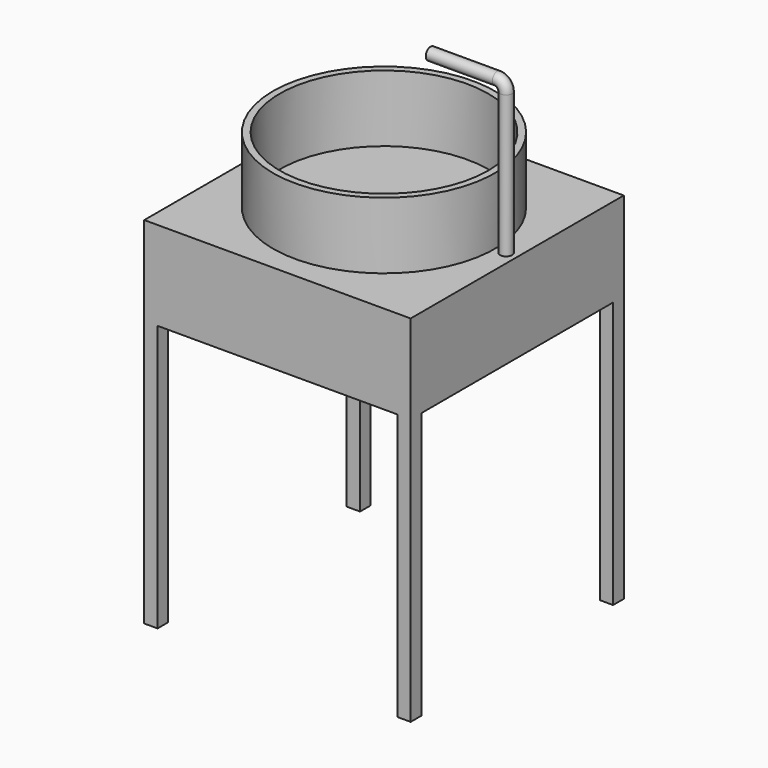
from build123d import *

# Parameters (mm, degrees)
F0_W          = 25
F0_H          = 15
F2_R          = 23.4773699194
F3_DEPTH      = 18.22955
F4_W          = 30
F4_H          = 20
F5_DEPTH      = 30
F5_DEPTH_BACK = 30
F7_R          = 1.3613777444
F9_W          = 3
F9_H          = 3
F10_DEPTH     = 60


with BuildPart() as f1:
    # F0 (on Front) → F1 (revolve)
    with BuildSketch(Plane.XZ):
        with Locations((-12.5, 7.5)):
            Rectangle(F0_W, F0_H)
    revolve(axis=Axis((0, 0, 7.5), (0, 0, 1)))

    # F2 (on face) → F3 (cut)
    with BuildSketch(Plane.XY.offset(15)):
        Circle(F2_R)
    extrude(amount=-F3_DEPTH, mode=Mode.SUBTRACT)

    # F4 (on Front) → F5 (join, two sides)
    with BuildSketch(Plane.XZ) as f5_sk:
        with Locations((15, -10)):
            Rectangle(F4_W, F4_H)
        with Locations((-15, -10)):
            Rectangle(F4_W, F4_H)
    extrude(amount=F5_DEPTH)
    extrude(f5_sk.sketch, amount=-F5_DEPTH_BACK)

    # F8: sweep along a path in F6
    with BuildLine(Plane.XZ) as f8_path:
        Line((27.4984519929, 0), (27.4984519929, 32))
        ThreePointArc((27.4984519929, 32), (26.9126655552, 33.4142135624), (25.4984519929, 34))
        Line((25.4984519929, 34), (10.4984519929, 34))
    # F7 (on Top) → F8 (sweep)
    with BuildSketch(Plane.XY):
        with Locations((27.4991728365, 0)):
            Circle(F7_R)
    sweep(path=f8_path.line)

    # F9 (on face) → F10 (join)
    with BuildSketch(Plane(origin=(0, 0, -20), x_dir=(1, 0, 0), z_dir=(0, 0, -1))):
        with Locations((-28.5, 28.5)):
            Rectangle(F9_W, F9_H)
        with Locations((28.5, 28.5)):
            Rectangle(F9_W, F9_H)
        with Locations((-28.5, -28.5)):
            Rectangle(F9_W, F9_H)
        with Locations((28.5, -28.5)):
            Rectangle(F9_W, F9_H)
    extrude(amount=F10_DEPTH)


solid = f1.part
